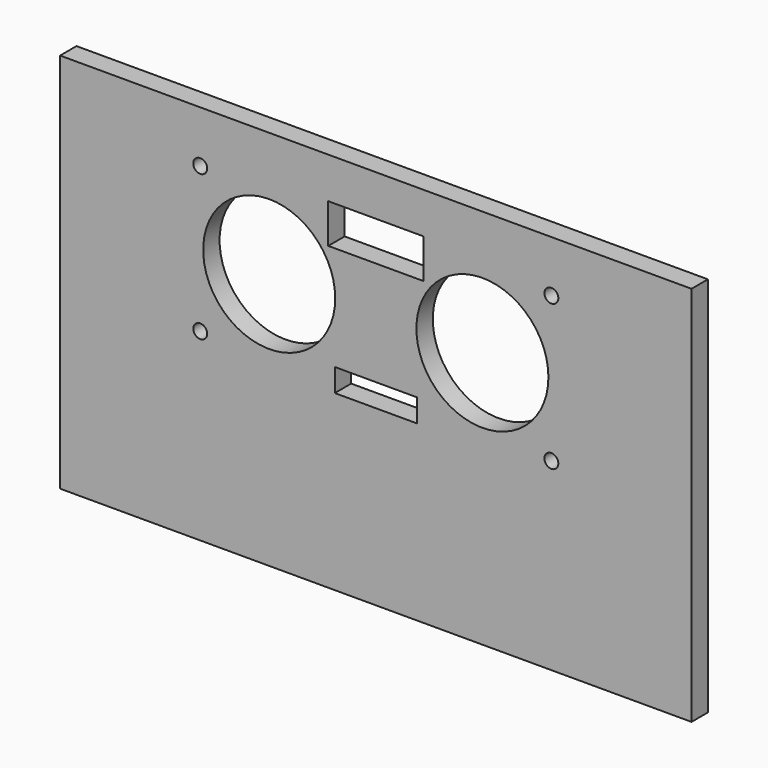
from build123d import *

# Parameters (mm, degrees)
F0_W     = 77
F0_H     = 46.5
F0_R     = 0.85
F0_R_2   = 8.05
F1_DEPTH = 2.5


with BuildPart() as f1:
    # F0 (on Front) → F1 (new body)
    with BuildSketch(Plane.XZ):
        with Locations((41.5, 26.25)):
            Rectangle(F0_W, F0_H)
        with Locations((20.09, 25.46)):
            Circle(F0_R, mode=Mode.SUBTRACT)
        Polygon((36.5, 24.16), (36.5, 26.96), (41.5, 26.96), (46.5, 26.96), (46.5, 24.16), (41.5, 24.16), align=None, mode=Mode.SUBTRACT)
        with Locations((62.91, 25.46)):
            Circle(F0_R, mode=Mode.SUBTRACT)
        with Locations((28.5, 34.33)):
            Circle(F0_R_2, mode=Mode.SUBTRACT)
        with Locations((20.09, 43.2)):
            Circle(F0_R, mode=Mode.SUBTRACT)
        with Locations((54.5, 34.33)):
            Circle(F0_R_2, mode=Mode.SUBTRACT)
        Polygon((35.7, 39.7), (35.7, 44.5), (41.5, 44.5), (47.3, 44.5), (47.3, 39.7), (41.5, 39.7), align=None, mode=Mode.SUBTRACT)
        with Locations((62.91, 43.2)):
            Circle(F0_R, mode=Mode.SUBTRACT)
    extrude(amount=F1_DEPTH)


solid = f1.part
